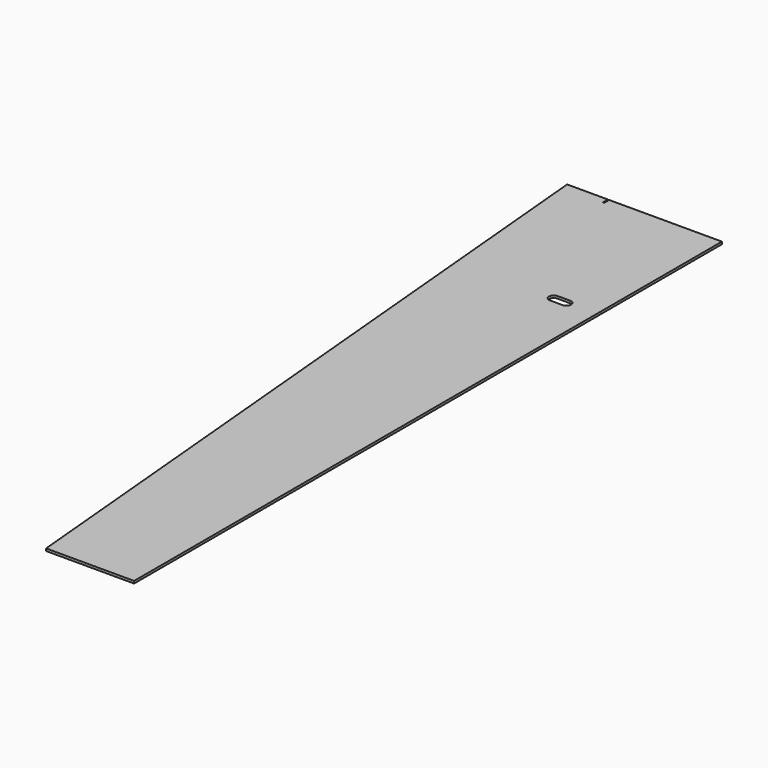
from build123d import *

# Parameters (mm, degrees)
F1_DEPTH = 4.7498


with BuildPart() as f1:
    # F0 (on Top) → F1 (new body)
    with BuildSketch(Plane.XY):
        Polygon((-310.397638, 736.6), (-176.470351, -736.6), (0, -736.6), (0, 736.6), (-226.06, 736.6), (-226.06, 723.9), (-228.6, 723.9), (-228.6, 736.6), align=None)
        with BuildLine():
            ThreePointArc((-85.725, 412.75), (-95.25, 422.275), (-85.725, 431.8))
            Line((-85.725, 431.8), (-60.325, 431.8))
            ThreePointArc((-60.325, 431.8), (-50.8, 422.275), (-60.325, 412.75))
            Line((-60.325, 412.75), (-85.725, 412.75))
        make_face(mode=Mode.SUBTRACT)
    extrude(amount=-F1_DEPTH)


solid = f1.part
